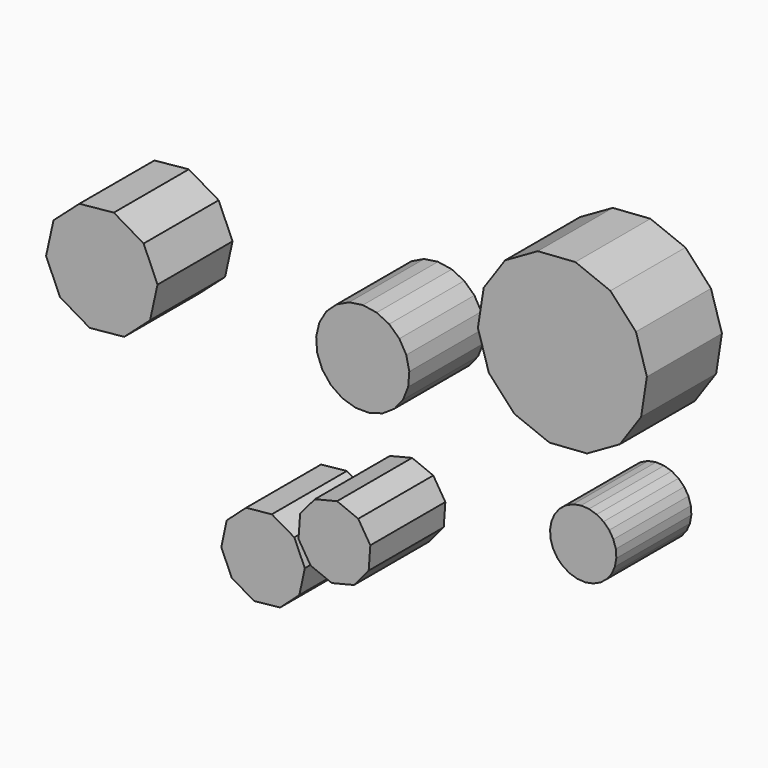
from build123d import *

# Parameters (mm, degrees)
F1_DEPTH = 406.8064


with BuildPart() as f1:
    # F0 (on Front) → F1 (new body)
    with BuildSketch(Plane.XZ):
        Polygon((328.833702, -203.087142), (425.11031, -179.252118), (488.989847, -103.379208), (496.0725, -4.449285), (443.652937, 79.749784), (351.753649, 117.056815), (255.477041, 93.221791), (191.597504, 17.348881), (184.514851, -81.581042), (236.934414, -165.780111), align=None)
        Polygon((104.602455, -369.550106), (188.34205, -294.34815), (211.886205, -184.287591), (166.241852, -81.407821), (68.843584, -25.005416), (-43.105772, -36.624177), (-126.845367, -111.826133), (-150.389522, -221.886693), (-104.74517, -324.766463), (-7.346902, -381.168868), align=None)
        Polygon((-427.107002, 690.611112), (-487.207711, 828.097582), (-616.642725, 904.000162), (-765.972269, 889.326647), (-878.157531, 789.68182), (-910.347556, 643.126619), (-850.246847, 505.640149), (-720.811832, 429.737569), (-571.482289, 444.411084), (-459.297026, 544.055911), align=None)
        Polygon((1121.003565, 700.634193), (1272.952676, 640.266061), (1436.046845, 651.804501), (1577.983272, 732.964184), (1670.649708, 867.67044), (1695.692427, 1029.243042), (1648.151413, 1185.680555), (1537.442746, 1305.998611), (1385.493636, 1366.366744), (1222.399467, 1354.828304), (1080.46304, 1273.668621), (987.796604, 1138.962365), (962.753885, 977.389763), (1010.294899, 820.95225), align=None)
        Polygon((660.369024, 654.047378), (665.117204, 714.218616), (651.918653, 773.116166), (621.946118, 825.506721), (577.862792, 866.735152), (523.585671, 893.13813), (463.937516, 902.369636), (404.218327, 893.609409), (349.734416, 867.635835), (305.326917, 826.75678), (274.941633, 774.604526), (261.278428, 715.81303), (265.551338, 655.606175), (287.380697, 599.333605), (324.826871, 551.995383), (374.562601, 517.797719), (432.168651, 499.779225), (492.52647, 499.540924), (550.273001, 517.103989), (600.277212, 550.907866), (638.096008, 597.94893), align=None)
        Polygon((1394.246264, 159.447986), (1428.890109, 157.534271), (1462.985248, 163.966981), (1494.550197, 178.372269), (1521.750514, 199.912951), (1543.005417, 227.337163), (1557.079648, 259.051108), (1563.155263, 293.211688), (1560.87917, 327.833612), (1550.383647, 360.904782), (1532.278656, 390.503221), (1507.616393, 414.908775), (1477.83014, 432.703083), (1444.650964, 442.852003), (1410.007119, 444.765717), (1375.91198, 438.333007), (1344.347031, 423.92772), (1317.146714, 402.387037), (1295.891811, 374.962825), (1281.81758, 343.24888), (1275.741965, 309.088301), (1278.018058, 274.466376), (1288.513581, 241.395206), (1306.618572, 211.796767), (1331.280835, 187.391213), (1361.067089, 169.596906), align=None)
    extrude(amount=F1_DEPTH)


solid = f1.part
